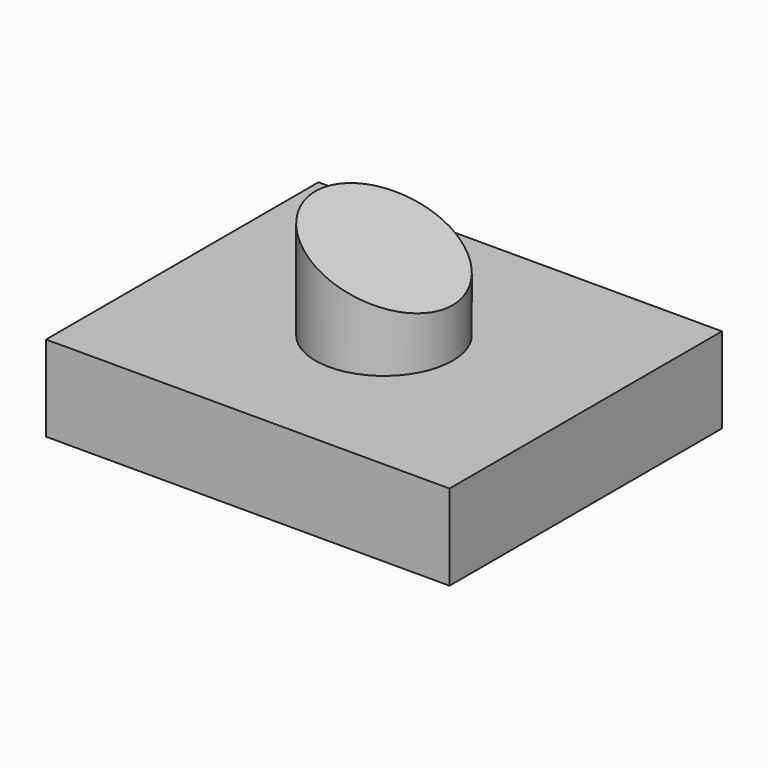
from build123d import *

# Parameters (mm, degrees)
F0_W     = 119.706568
F0_H     = 101.024038
F1_DEPTH = 25.4
F2_R     = 20.348716
F3_DEPTH = 32.004
F5_DEPTH = 63.5


with BuildPart() as f1:
    # F0 (on Top) → F1 (new body)
    with BuildSketch(Plane.XY):
        Rectangle(F0_W, F0_H)
    extrude(amount=F1_DEPTH)

    # F2 (on face) → F3 (join)
    with BuildSketch(Plane.XY.offset(25.4)):
        Circle(F2_R)
    extrude(amount=F3_DEPTH)

    # F4 (on Front) → F5 (cut, symmetric)
    with BuildSketch(Plane.XZ):
        Polygon((24.732081, 57.519987), (-22.998786, 57.519987), (24.732081, 38.122512), align=None)
    extrude(amount=F5_DEPTH, both=True, mode=Mode.SUBTRACT)


solid = f1.part
